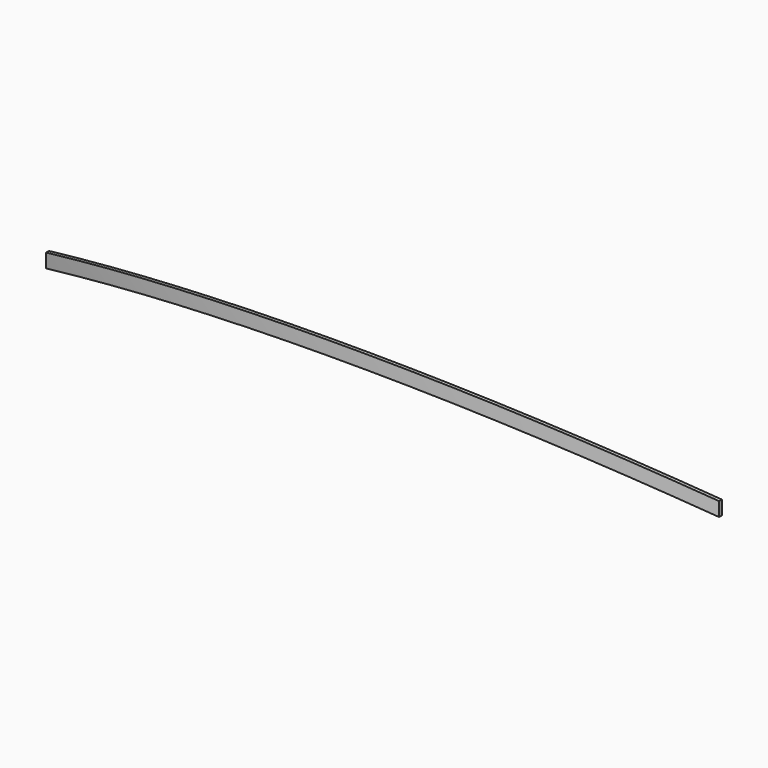
from build123d import *

# Parameters (mm, degrees)
F3_W     = 2.1166666667
F3_H     = 8.4666666667
F5_W     = 511.3508841764
F5_H     = 466.1341470838
F7_DEPTH = 5.0709858038


with BuildPart() as f6:
    # F6: sweep along a path in F1
    with BuildLine(Plane(origin=(0, 0, 0), x_dir=(-1, 0, 0), z_dir=(0, 0.7071067812, 0.7071067812))) as f6_path:
        ThreePointArc((203.2, -72.7953817725), (0, -34.5404806832), (-203.2, -72.7953817725))
    # F3 (on offset) → F6 (sweep)
    with BuildSketch(Plane.YZ.offset(203.2)):
        with Locations((50.4157747571, -47.2407747571)):
            Rectangle(F3_W, F3_H)
    sweep(path=f6_path.line)

    # F5 (on offset) → F7 (cut, through all)
    with BuildSketch(Plane.YZ.offset(-203.2)):
        with Locations((111.1233336304, -120.9892424027)):
            Rectangle(F5_W, F5_H)
    extrude(amount=-F7_DEPTH, mode=Mode.SUBTRACT)


solid = f6.part
